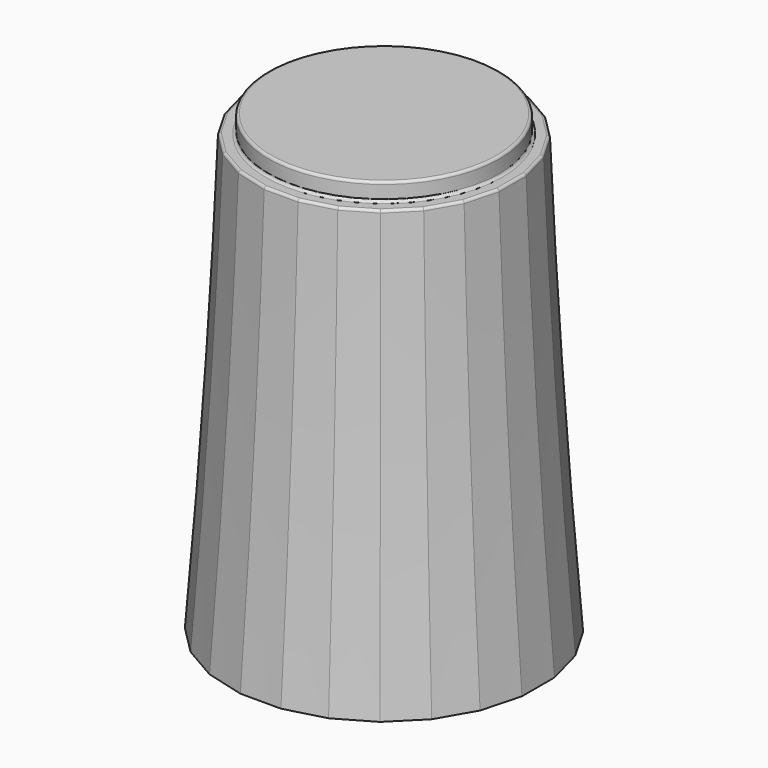
from build123d import *

# Parameters (mm, degrees)
SKETCH011_R     = 4.5
PAD002_DEPTH    = 0.7
SKETCH010_R     = 5
POCKET004_DEPTH = 1
SKETCH008_R     = 4.65
POCKET003_DEPTH = 1
POCKET005_DEPTH = 8
CHAMFER002_SIZE = 1.4
CHAMFER003_SIZE = 0.3
FILLET001_R     = 0.1


with BuildPart() as part:
    # Sketch013 → AdditiveLoft001 section 0
    with BuildSketch(Plane.XY):
        Polygon((-0.789915, 6), (-2.315914, 5.59111), (-3.684086, 4.801195), (-4.801195, 3.684086), (-5.59111, 2.315914), (-6, 0.789915), (-6, -0.789915), (-5.59111, -2.315914), (-4.801195, -3.684086), (-3.684086, -4.801195), (-2.315914, -5.59111), (-0.789915, -6), (0.789915, -6), (2.315914, -5.59111), (3.684086, -4.801195), (4.801195, -3.684086), (5.59111, -2.315914), (6, -0.789915), (6, 0.789915), (5.59111, 2.315914), (4.801195, 3.684086), (3.684086, 4.801195), (2.315914, 5.59111), (0.789915, 6), align=None)
    # Sketch012 → AdditiveLoft001 section 1
    with BuildSketch(Plane.XY.offset(7)):
        Polygon((-0.724089, 5.5), (-2.122921, 5.125184), (-3.377079, 4.401095), (-4.401095, 3.377079), (-5.125184, 2.122921), (-5.5, 0.724089), (-5.5, -0.724089), (-5.125184, -2.122921), (-4.401095, -3.377079), (-3.377079, -4.401095), (-2.122921, -5.125184), (-0.724089, -5.5), (0.724089, -5.5), (2.122921, -5.125184), (3.377079, -4.401095), (4.401095, -3.377079), (5.125184, -2.122921), (5.5, -0.724089), (5.5, 0.724089), (5.125184, 2.122921), (4.401095, 3.377079), (3.377079, 4.401095), (2.122921, 5.125184), (0.724089, 5.5), align=None)
    # Sketch014 → AdditiveLoft001 section 2
    with BuildSketch(Plane.XY.offset(17)):
        Polygon((-4.659258, 1.929928), (-5, 0.658262), (-5, -0.658262), (-4.659258, -1.929928), (-4.000996, -3.070072), (-3.070072, -4.000996), (-1.929928, -4.659258), (-0.658262, -5), (0.658262, -5), (1.929928, -4.659258), (3.070072, -4.000996), (4.000996, -3.070072), (4.659258, -1.929928), (5, -0.658262), (5, 0.658262), (4.659258, 1.929928), (4.000996, 3.070072), (3.070072, 4.000996), (1.929928, 4.659258), (0.658262, 5), (-0.658262, 5), (-1.929928, 4.659258), (-3.070072, 4.000996), (-4.000996, 3.070072), align=None)
    loft()

    # Sketch011 (on Face3 of AdditiveLoft001) → Pad002 (new body)
    with BuildSketch(Plane.XY.offset(17)):
        Circle(SKETCH011_R)
    extrude(amount=PAD002_DEPTH)

    # Sketch010 (on Face1 of Pad002) → Pocket004 (cut)
    with BuildSketch(Plane(origin=(0, 0, 0), x_dir=(1, 0, 0), z_dir=(0, 0, -1))):
        Circle(SKETCH010_R)
    extrude(amount=-POCKET004_DEPTH, mode=Mode.SUBTRACT)

    # Sketch008 (on Face28 of Pocket004) → Pocket003 (cut)
    with BuildSketch(Plane(origin=(0, 0, 1), x_dir=(1, 0, 0), z_dir=(0, 0, -1))):
        Circle(SKETCH008_R)
    extrude(amount=-POCKET003_DEPTH, mode=Mode.SUBTRACT)

    # Sketch009 (on Face32 of Pocket003) → Pocket005 (cut)
    with BuildSketch(Plane(origin=(0, 0, 2), x_dir=(1, 0, 0), z_dir=(0, 0, -1))):
        with BuildLine():
            ThreePointArc((-1.741757, 2.442598), (0, -3), (1.741757, 2.442598))
            Line((-1.741757, 2.442598), (1.741757, 2.442598))
        make_face()
    extrude(amount=-POCKET005_DEPTH, mode=Mode.SUBTRACT)

    # Chamfer002
    chamfer002_edges = [part.edges().sort_by_distance(p)[0] for p in [
        (0, 3, 2),
        (0, -2.442598, 2),
    ]]
    chamfer(chamfer002_edges, length=CHAMFER002_SIZE)

    # Chamfer003
    chamfer003_edges = [part.edges().sort_by_distance(p)[0] for p in [
        (-4.65, 0, 1),
    ]]
    chamfer(chamfer003_edges, length=CHAMFER003_SIZE)

    # Fillet001
    fillet001_edges = [part.edges().sort_by_distance(p)[0] for p in [
        (-4.5, 0, 17.7),
        (-4.829629, 1.294095, 17),
        (-4.330127, 2.5, 17),
        (-5, 0, 17),
        (-3.535534, 3.535534, 17),
        (-4.829629, -1.294095, 17),
        (-2.5, 4.330127, 17),
        (-4.330127, -2.5, 17),
        (-1.294095, 4.829629, 17),
        (-3.535534, -3.535534, 17),
        (0, 5, 17),
        (-2.5, -4.330127, 17),
        (1.294095, 4.829629, 17),
        (-1.294095, -4.829629, 17),
        (2.5, 4.330127, 17),
        (0, -5, 17),
        (3.535534, 3.535534, 17),
        (1.294095, -4.829629, 17),
        (4.330127, 2.5, 17),
        (2.5, -4.330127, 17),
        (4.829629, 1.294095, 17),
        (3.535534, -3.535534, 17),
        (5, 0, 17),
        (4.330127, -2.5, 17),
        (4.829629, -1.294095, 17),
        (-4.5, 0, 17),
    ]]
    fillet(fillet001_edges, radius=FILLET001_R)


solid = part.part
